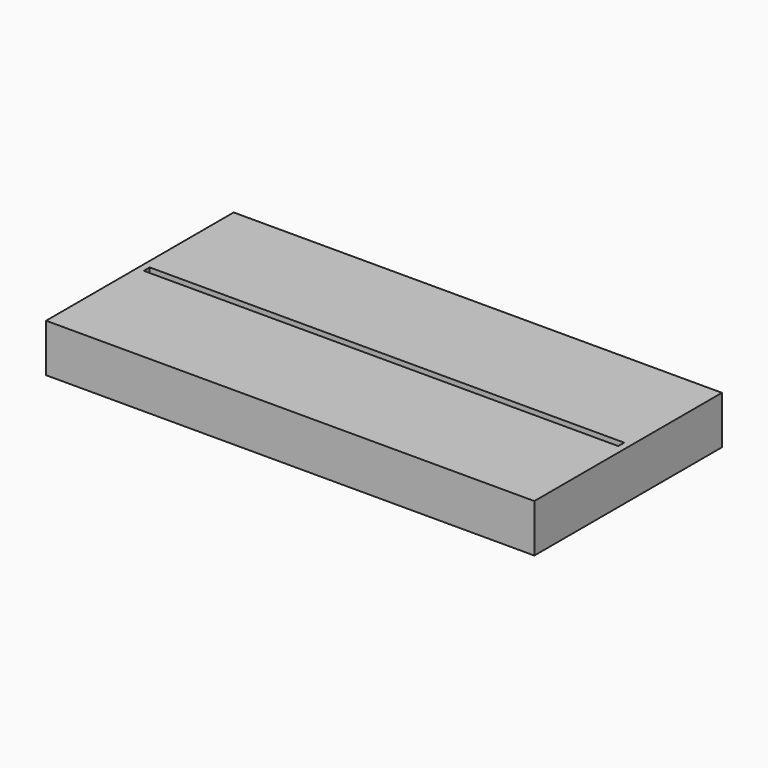
from build123d import *

# Parameters (mm, degrees)
F0_W     = 177
F0_H     = 85
F1_DEPTH = 17.4
F2_W     = 172
F2_H     = 2.7
F3_DEPTH = 9.7


with BuildPart() as f1:
    # F0 (on Top) → F1 (new body)
    with BuildSketch(Plane.XY):
        Rectangle(F0_W, F0_H)
        Rectangle(F0_W, F0_H)
    extrude(amount=F1_DEPTH)

    # F2 (on face) → F3 (cut)
    with BuildSketch(Plane.XY.offset(17.4)):
        Rectangle(F2_W, F2_H)
    extrude(amount=-F3_DEPTH, mode=Mode.SUBTRACT)


solid = f1.part
